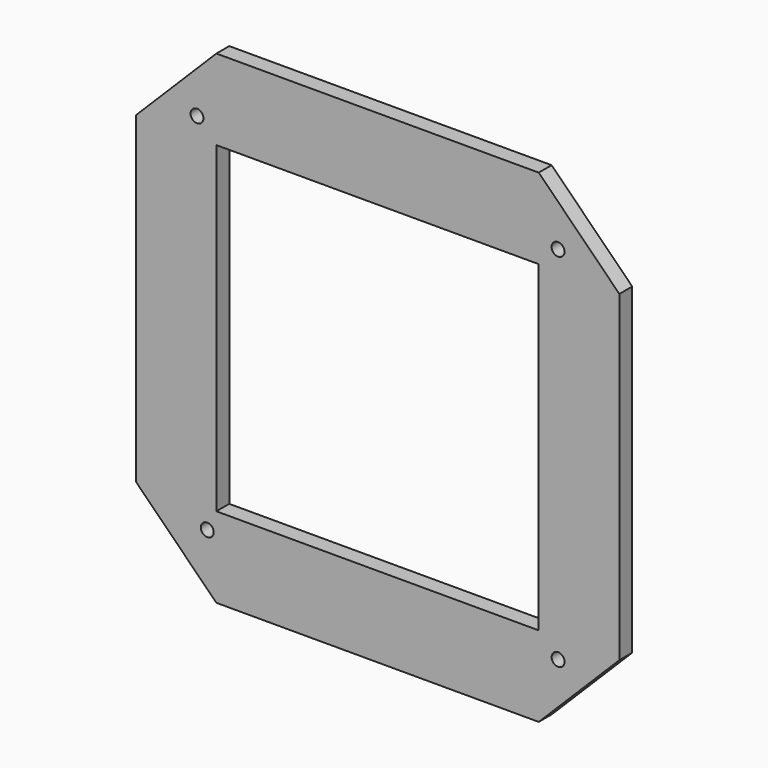
from build123d import *

# Parameters (mm, degrees)
F0_W     = 150
F0_H     = 150
F0_W_2   = 100
F0_H_2   = 100
F1_DEPTH = 5
F2_SIZE  = 25
F4_D     = 4


with BuildPart() as f1:
    # F0 (on Front) → F1 (new body)
    with BuildSketch(Plane.XZ):
        Rectangle(F0_W, F0_H)
        Rectangle(F0_W_2, F0_H_2, mode=Mode.SUBTRACT)
    extrude(amount=F1_DEPTH)

    # F2
    f2_edges = [f1.edges().sort_by_distance(p)[0] for p in [
        (-75, -2.5, 75),
        (75, -2.5, 75),
        (-75, -2.5, -75),
        (75, -2.5, -75),
    ]]
    chamfer(f2_edges, length=F2_SIZE)

    # F4 (through all)
    with Locations(Plane.XZ.offset(5)):
        with Locations((56, 56), (56, -56), (-52.823993, -56), (-56, 56)):
            Hole(F4_D / 2)


solid = f1.part
